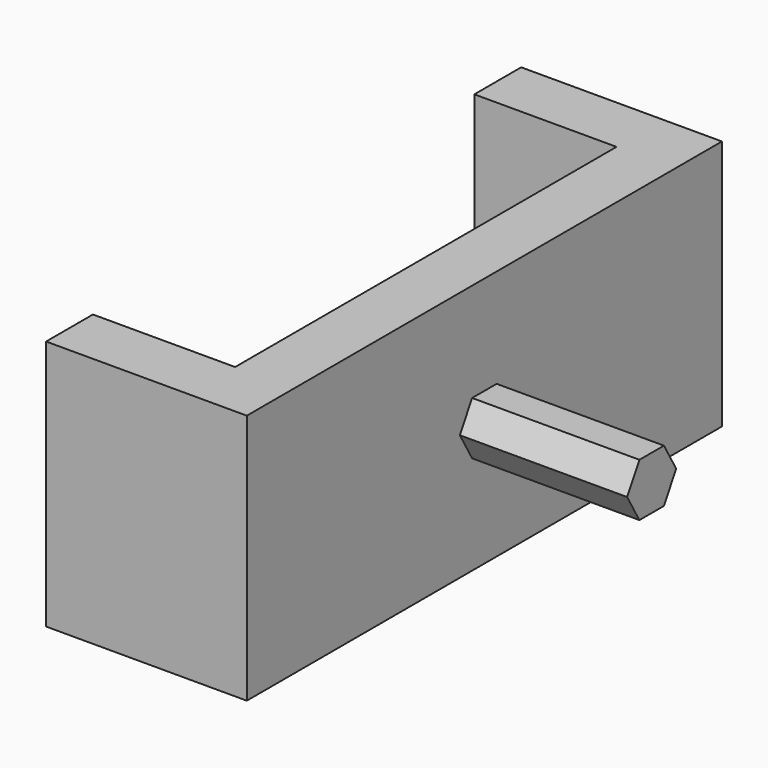
from build123d import *

# Parameters (mm, degrees)
F0_W     = 17
F0_H     = 7
F0_W_2   = 7
F0_H_2   = 57
F1_DEPTH = 30
F3_DEPTH = 20


with BuildPart() as f1:
    # F0 (on Top) → F1 (new body)
    with BuildSketch(Plane.XY):
        with Locations((-8.5, 41.983845)):
            Rectangle(F0_W, F0_H)
        with Locations((3.5, 41.983845)):
            Rectangle(F0_W_2, F0_H)
        with Locations((3.5, 9.983845)):
            Rectangle(F0_W_2, F0_H_2)
        Polygon((7, -18.516155), (0, -18.516155), (-17, -18.516155), (-17, -25.516155), (7, -25.516155), align=None)
    extrude(amount=F1_DEPTH)

    # F2 (on face) → F3 (join)
    with BuildSketch(Plane.YZ.offset(7)):
        Polygon((8.151776, 18.175587), (6.317671, 15.001175), (8.14974, 11.825588), (11.815914, 11.824413), (13.650019, 14.998825), (11.81795, 18.174412), align=None)
    extrude(amount=F3_DEPTH)


solid = f1.part
